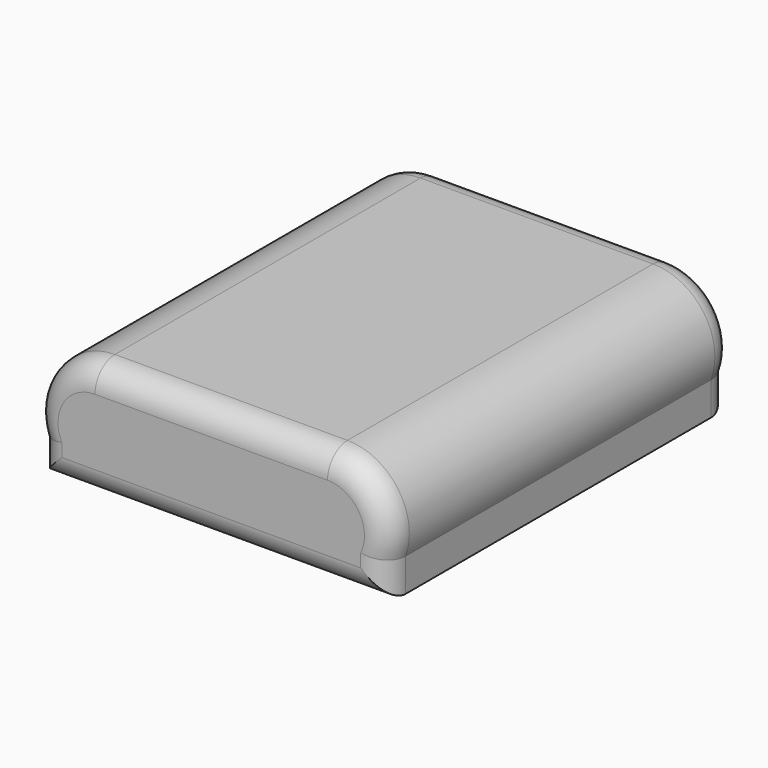
from build123d import *

# Parameters (mm, degrees)
F0_W     = 28
F0_H     = 14
F1_DEPTH = 52
F2_R     = 3
F3_R     = 3


with BuildPart() as f1:
    # F0 (on Front) → F1 (new body)
    with BuildSketch(Plane.XZ):
        Rectangle(F0_W, F0_H)
        with BuildLine():
            Line((14, 7), (14, -7))
            Line((14, -7), (21, -7))
            Line((21, -7), (21, -3))
            ThreePointArc((21, -3), (20.1032778079, 3.8222944655), (14, 7))
        make_face()
        with BuildLine():
            Line((-21, -7), (-14, -7))
            Line((-14, -7), (-14, 7))
            ThreePointArc((-14, 7), (-20.1032778079, 3.8222944655), (-21, -3))
            Line((-21, -3), (-21, -7))
        make_face()
    extrude(amount=F1_DEPTH)

    # F2
    f2_edges = [f1.edges().sort_by_distance(p)[0] for p in [
        (21, -52, -5),
        (20.103278, -52, 3.822294),
        (0, -52, 7),
        (-20.103278, -52, 3.822294),
        (-21, -52, -5),
        (0, -52, -7),
    ]]
    fillet(f2_edges, radius=F2_R)

    # F3
    f3_edges = [f1.edges().sort_by_distance(p)[0] for p in [
        (21, 0, -5),
        (20.103278, 0, 3.822294),
        (0, 0, 7),
        (-20.103278, 0, 3.822294),
        (-21, 0, -5),
        (0, 0, -7),
    ]]
    fillet(f3_edges, radius=F3_R)


solid = f1.part
